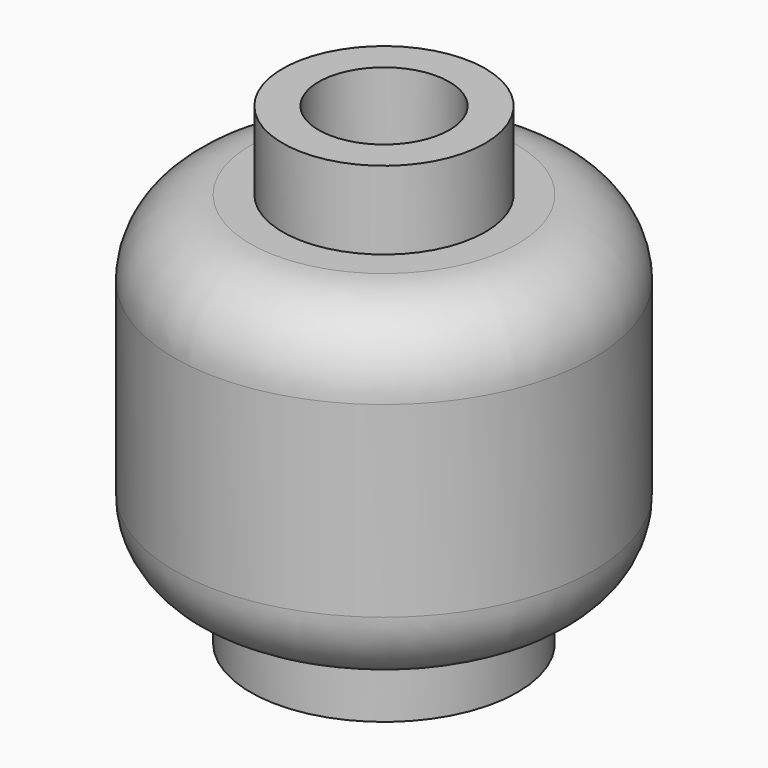
from build123d import *

# Parameters (mm, degrees)
F0_R     = 5.065
F1_DEPTH = 8.2
F2_R     = 1.835
F3_R     = 2.45
F4_DEPTH = 1.89
F5_R     = 1.58
F6_DEPTH = 1.89
F7_R     = 3.23
F7_R_2   = 2.39
F8_DEPTH = 1.35
F9_DEPTH = 6.5


with BuildPart() as f1:
    # F0 (on Top) → F1 (new body)
    with BuildSketch(Plane.XY):
        Circle(F0_R)
    extrude(amount=F1_DEPTH)

    # F2
    f2_edges = [f1.edges().sort_by_distance(p)[0] for p in [
        (-5.065, 0, 8.2),
        (-5.065, 0, 0),
    ]]
    fillet(f2_edges, radius=F2_R)

    # F3 (on face) → F4 (join)
    with BuildSketch(Plane.XY.offset(8.2)):
        Circle(F3_R)
    extrude(amount=F4_DEPTH)

    # F5 (on face) → F6 (cut)
    with BuildSketch(Plane.XY.offset(10.09)):
        Circle(F5_R)
    extrude(amount=-F6_DEPTH, mode=Mode.SUBTRACT)

    # F7 (on face) → F8 (join)
    with BuildSketch(Plane(origin=(0, 0, 0), x_dir=(1, 0, 0), z_dir=(0, 0, -1))):
        Circle(F7_R)
        Circle(F7_R_2, mode=Mode.SUBTRACT)
    extrude(amount=F8_DEPTH)

    # F9 (cut): a face of the model
    f9_faces = [f1.faces().sort_by_distance(p)[0] for p in [
        (0, 0, 0),
    ]]
    extrude(f9_faces, amount=-F9_DEPTH, mode=Mode.SUBTRACT)


solid = f1.part
